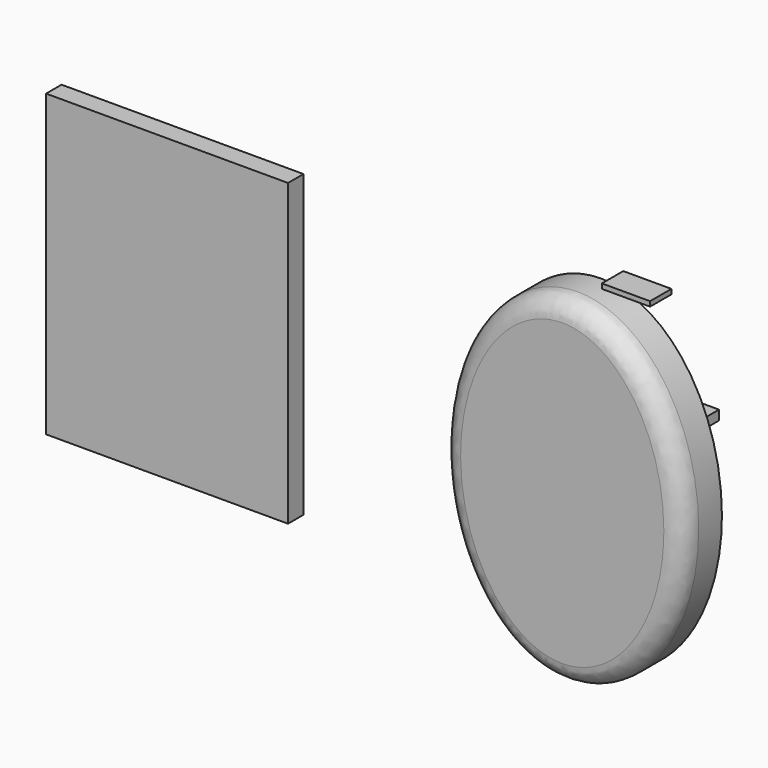
from build123d import *

# Parameters (mm, degrees)
F1_DEPTH = 12.7
F2_R     = 5.08
F3_W     = 63.5
F3_H     = 78.74
F4_DEPTH = 5.08
F5_W     = 14.898598
F5_H     = 5.775668
F6_DEPTH = 2.54
F8_W     = 12.64382
F8_H     = 7.00663
F9_DEPTH = 1.27


with BuildPart() as f1:
    # F0 (on Front) → F1 (new body)
    with BuildSketch(Plane.XZ):
        with BuildLine():
            add(Edge.make_bspline(
                [(31.75, 0), (31.75, 76.989658), (-15.875, 38.494829), (-63.5, 0), (-15.875, -38.494829), (31.75, -76.989658), (31.75, 0)],
                knots=[4.712389, 4.712389, 4.712389, 6.806784, 6.806784, 8.901179, 8.901179, 10.995574, 10.995574, 10.995574], degree=2, weights=[1, 0.5, 1, 0.5, 1, 0.5, 1]))
        make_face()
    extrude(amount=F1_DEPTH)

    # F2
    f2_edges = [f1.edges().sort_by_distance(p)[0] for p in [
        (-31.75, -12.7, 0),
    ]]
    fillet(f2_edges, radius=F2_R)


with BuildPart() as f4:
    # F3 (on Front) → F4 (new body)
    with BuildSketch(Plane.XZ):
        with Locations((-109.827118, 3.816081)):
            Rectangle(F3_W, F3_H)
    extrude(amount=F4_DEPTH)


with BuildPart() as f6:
    # F5 (on Top) → F6 (new body)
    with BuildSketch(Plane.XY):
        with Locations((-2.482649, 29.629953)):
            Rectangle(F5_W, F5_H)
    extrude(amount=F6_DEPTH)


with BuildPart() as f9:
    # F8 (on offset) → F9 (new body)
    with BuildSketch(Plane.XY.offset(44.45)):
        with Locations((9.371525, 0)):
            Rectangle(F8_W, F8_H)
    extrude(amount=F9_DEPTH)


solid = Compound([f1.part, f4.part, f6.part, f9.part])
